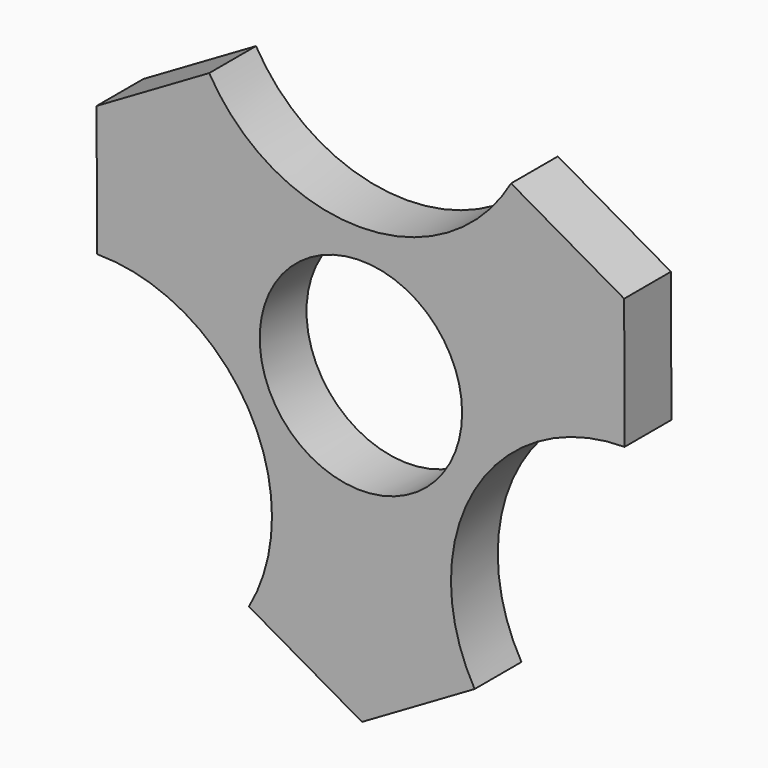
from build123d import *

# Parameters (mm, degrees)
F0_R     = 10.9855
F1_DEPTH = 6.35


with BuildPart() as f1:
    # F0 (on Front) → F1 (new body)
    with BuildSketch(Plane.XZ):
        with BuildLine():
            Line((28.575312, 16.634824), (16.299291, 23.663835))
            ThreePointArc((16.299291, 23.663835), (-0.050708, 14.145851), (-16.468524, 23.546374))
            Line((-16.468524, 23.546374), (-28.693836, 16.429534))
            Line((-28.693836, 16.429534), (-28.643128, 2.283683))
            ThreePointArc((-28.643128, 2.283683), (-15.22182, -3.233378), (-9.656683, -16.634824))
            ThreePointArc((-9.656683, -16.634824), (-10.292573, -21.498565), (-12.157496, -26.035347))
            Line((-12.157496, -26.035347), (0.118524, -33.064358))
            Line((0.118524, -33.064358), (12.343837, -25.947518))
            ThreePointArc((12.343837, -25.947518), (12.27602, -7.029011), (28.62602, 2.488973))
            Line((28.62602, 2.488973), (28.575312, 16.634824))
        make_face()
        Circle(F0_R, mode=Mode.SUBTRACT)
    extrude(amount=F1_DEPTH)


solid = f1.part
